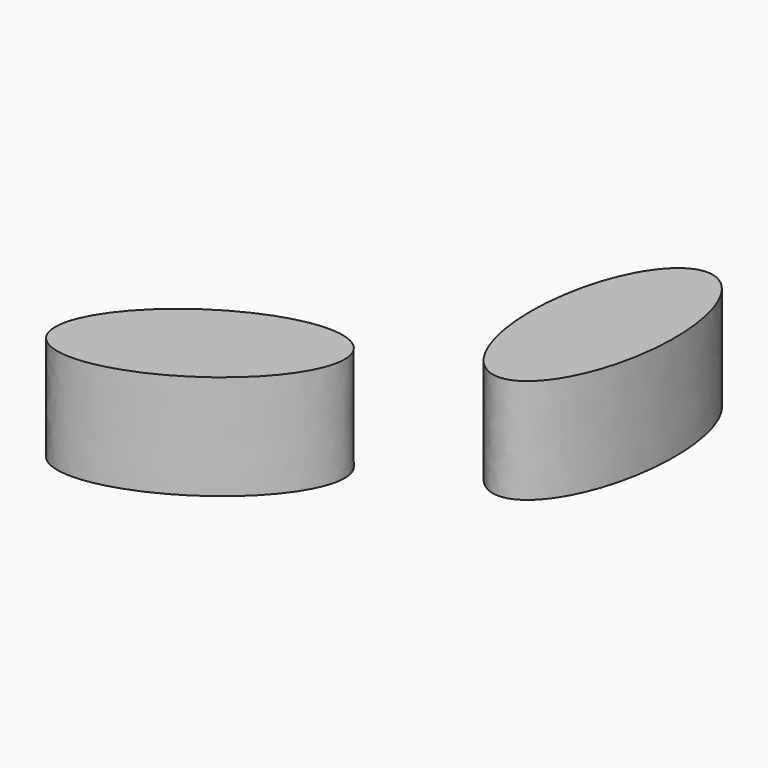
from build123d import *

# Parameters (mm, degrees)
F1_DEPTH = 105.68323


with BuildPart() as f1:
    # F0 (on Top) → F1 (new body)
    with BuildSketch(Plane.XY):
        with BuildLine():
            add(Edge.make_bspline(
                [(219.089737, -281.483985), (163.972451, -198.013348), (39.136503, -340.377779), (-85.699444, -482.74221), (94.253789, -423.848417), (274.207023, -364.954623), (219.089737, -281.483985)],
                knots=[0, 0, 0, 2.094395, 2.094395, 4.18879, 4.18879, 6.283185, 6.283185, 6.283185], degree=2, weights=[1, 0.5, 1, 0.5, 1, 0.5, 1]))
        make_face()
        with BuildLine():
            add(Edge.make_bspline(
                [(356.673258, -4.211141), (257.04822, 4.739521), (290.519274, -181.623924), (323.990329, -367.987369), (390.144313, -190.574586), (456.298297, -13.161803), (356.673258, -4.211141)],
                knots=[0, 0, 0, 2.094395, 2.094395, 4.18879, 4.18879, 6.283185, 6.283185, 6.283185], degree=2, weights=[1, 0.5, 1, 0.5, 1, 0.5, 1]))
        make_face()
    extrude(amount=F1_DEPTH)


solid = f1.part
